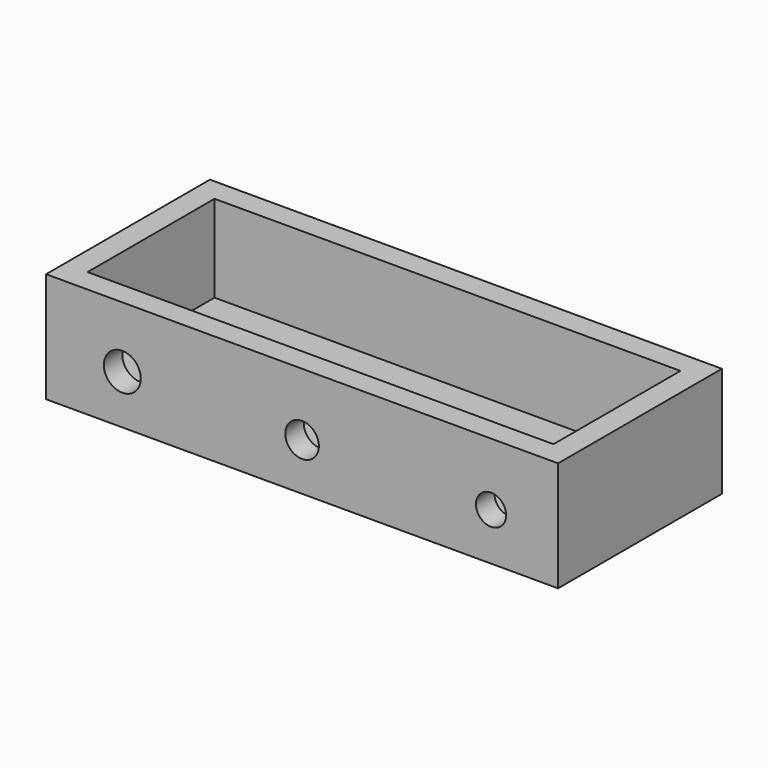
from build123d import *

# Parameters (mm, degrees)
F0_W     = 100
F0_H     = 40
F1_DEPTH = 4.5
F2_W     = 100
F2_H     = 40
F2_W_2   = 91
F2_H_2   = 31
F3_DEPTH = 17
F4_R     = 3.277271
F4_R_2   = 2.943444
F4_R_3   = 3.611157
F5_DEPTH = 25


with BuildPart() as f1:
    # F0 (on Top) → F1 (new body)
    with BuildSketch(Plane.XY):
        Rectangle(F0_W, F0_H)
    extrude(amount=F1_DEPTH)

    # F2 (on face) → F3 (join)
    with BuildSketch(Plane.XY.offset(4.5)):
        Rectangle(F2_W, F2_H)
        Rectangle(F2_W_2, F2_H_2, mode=Mode.SUBTRACT)
    extrude(amount=F3_DEPTH)

    # F4 (on face) → F5 (cut)
    with BuildSketch(Plane.XZ.offset(20)):
        with Locations((0, 9.264707)):
            Circle(F4_R)
        with Locations((36.909394, 9.264707)):
            Circle(F4_R_2)
        with Locations((-35.116225, 9.563568)):
            Circle(F4_R_3)
    extrude(amount=-F5_DEPTH, mode=Mode.SUBTRACT)


solid = f1.part
